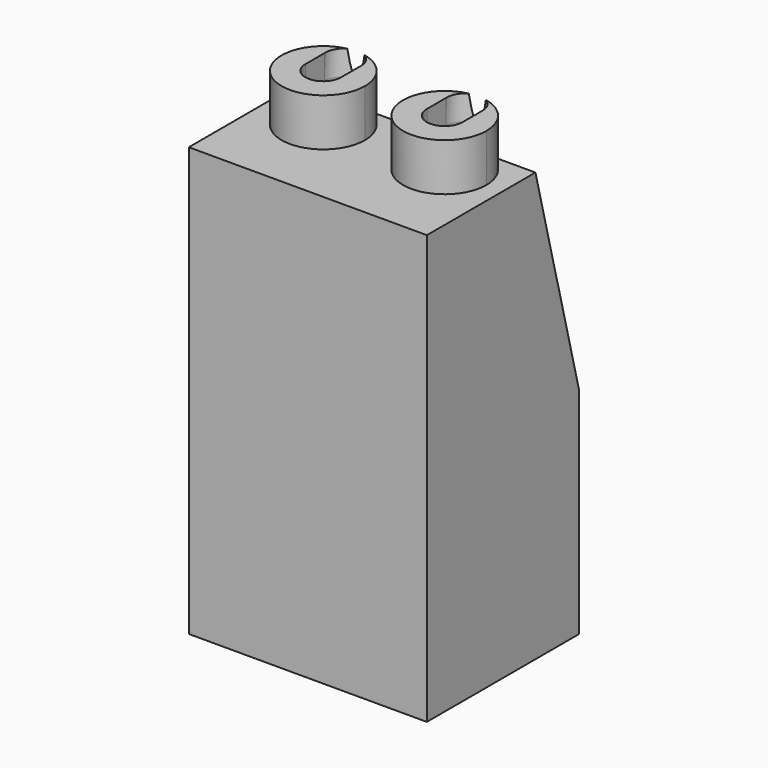
from build123d import *

# Parameters (mm, degrees)
SKETCH_W        = 10
SKETCH_H        = 8
PAD_DEPTH       = 18
SKETCH001_R     = 1.75
PAD001_DEPTH    = 2
SKETCH002_R     = 0.75
POCKET_DEPTH    = 21
POCKET001_DEPTH = 10
POCKET002_DEPTH = 5


with BuildPart() as part:
    # Sketch → Pad (new body)
    with BuildSketch(Plane.XY):
        Rectangle(SKETCH_W, SKETCH_H)
    extrude(amount=PAD_DEPTH)

    # Sketch001 (on Face6 of Pad) → Pad001 (join)
    with BuildSketch(Plane.XY.offset(18)):
        with Locations((-2.55, 0)):
            Circle(SKETCH001_R)
        with Locations((2.55, 0)):
            Circle(SKETCH001_R)
    extrude(amount=PAD001_DEPTH)

    # Sketch002 (on Face4 of Pad001) → Pocket (cut)
    with BuildSketch(Plane(origin=(0, 0, -0.1), x_dir=(1, 0, 0), z_dir=(0, -0.052336, -0.99863))):
        with Locations((-2.55, 0)):
            Circle(SKETCH002_R)
        with Locations((2.55, 0)):
            Circle(SKETCH002_R)
    extrude(amount=-POCKET_DEPTH, mode=Mode.SUBTRACT)

    # Sketch003 (on Face2 of Pocket) → Pocket001 (cut)
    with BuildSketch(Plane(origin=(-5, 0, 0), x_dir=(0, -1, 0), z_dir=(-1, 0, 0))):
        Polygon((-4, 18), (-4, 9), (-1.7, 18), align=None)
    extrude(amount=-POCKET001_DEPTH, mode=Mode.SUBTRACT)

    # Sketch007 (on Face14 of Pocket001) → Pocket002 (cut)
    with BuildSketch(Plane.XY.offset(20)):
        with BuildLine():
            ThreePointArc((-3.3, 0), (-2.55, -0.75), (-1.8, 0))
            Line((-1.8, 0), (-1.8, 1))
            ThreePointArc((-1.8, 1), (-2.55, 1.75), (-3.3, 1))
            Line((-3.3, 0), (-3.3, 1))
        make_face()
        with BuildLine():
            ThreePointArc((1.8, 0), (2.55, -0.75), (3.3, 0))
            Line((3.3, 0), (3.3, 1))
            ThreePointArc((3.3, 1), (2.55, 1.75), (1.8, 1))
            Line((1.8, 0), (1.8, 1))
        make_face()
    extrude(amount=-POCKET002_DEPTH, mode=Mode.SUBTRACT)


solid = part.part
